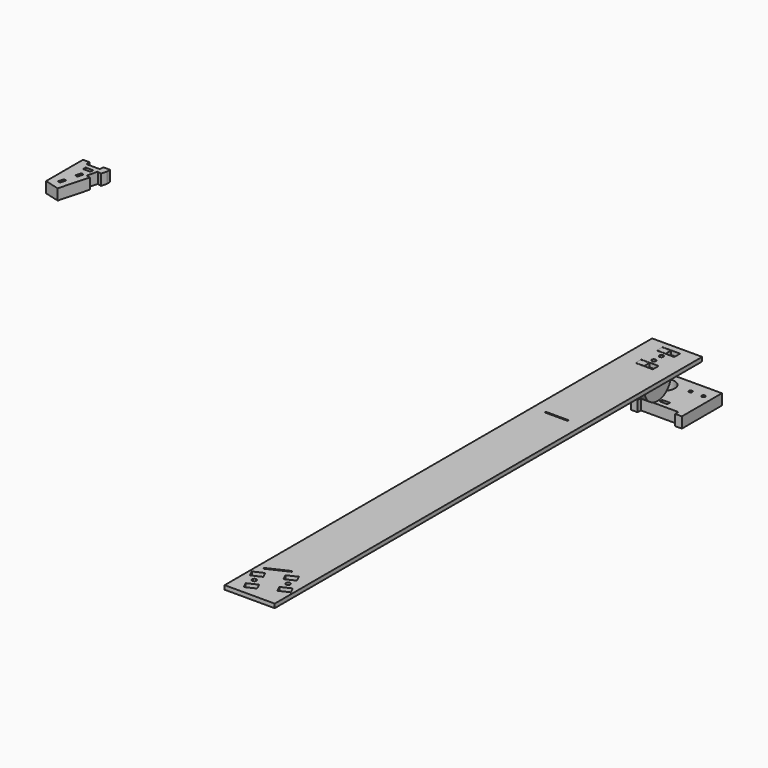
from build123d import *

# Parameters (mm, degrees)
SKETCH_R        = 7.4
SKETCH_R_2      = 1.25
SKETCH_W        = 5.6
SKETCH_H        = 2.4
PAD_DEPTH       = 8
PAD001_DEPTH    = 6.5
SKETCH002_R     = 7.1
PAD002_DEPTH    = 8
SKETCH003_R     = 1.6
POCKET_DEPTH    = 7
SKETCH005_R     = 1.6
POCKET002_DEPTH = 12
SKETCH015_W     = 6.1
SKETCH015_H     = 2.4
POCKET003_DEPTH = 3
SKETCH016_W     = 5.6
SKETCH016_H     = 5.6
POCKET004_DEPTH = 2
CHAMFER_SIZE    = 1.7
SKETCH008_W     = 37
SKETCH008_H     = 395
SKETCH008_R     = 1.5
SKETCH008_R_2   = 1.6
SKETCH008_W_2   = 13
SKETCH008_H_2   = 5.4
SKETCH008_W_3   = 17
SKETCH008_H_3   = 1
PAD003_DEPTH    = 3
SKETCH009_W     = 5.6
SKETCH009_H     = 2.4
PAD004_DEPTH    = 8


with BuildPart() as holder:
    # Sketch → Pad (new body)
    with BuildSketch(Plane.XY):
        with BuildLine():
            Line((-5.334047, 0), (-0.334047, 0))
            Line((-0.334047, 0), (-0.334047, 3))
            Line((-0.334047, 3), (27.4, 3))
            Line((27.4, 3), (27.4, 0))
            Line((27.4, 0), (32.4, 0))
            Line((32.4, 0), (32.4, 37))
            Line((32.4, 37), (5e-06, 37))
            ThreePointArc((5e-06, 37), (-10.157483, 31.712346), (-11.652187, 20.358945))
            Line((-11.652187, 20.358945), (-5.334047, 3))
            Line((-5.334047, 3), (-5.334047, 0))
        make_face()
        with Locations((0, 24.6)):
            Circle(SKETCH_R, mode=Mode.SUBTRACT)
        with Locations((16.9, 27.5)):
            Circle(SKETCH_R_2, mode=Mode.SUBTRACT)
        with Locations((26.4, 27.5)):
            Circle(SKETCH_R_2, mode=Mode.SUBTRACT)
        with Locations((13.532976, 7.8)):
            Rectangle(SKETCH_W, SKETCH_H, mode=Mode.SUBTRACT)
    extrude(amount=PAD_DEPTH)


with BuildPart() as hinge:
    # Sketch001 → Pad001 (new body)
    with BuildSketch(Plane.YZ):
        with BuildLine():
            Line((12.4, 24.6), (12.4, 40))
            Line((12.4, 40), (7.4, 40))
            Line((7.4, 40), (7.4, 37))
            Line((7.4, 37), (-7.4, 37))
            Line((-7.4, 37), (-7.4, 40))
            Line((-7.4, 40), (-12.4, 40))
            Line((-12.4, 40), (-12.4, 24.6))
            ThreePointArc((-12.4, 24.6), (0, 12.2), (12.4, 24.6))
        make_face()
    extrude(amount=PAD001_DEPTH)

    # Sketch002 (on Face9 of Pad001) → Pad002 (join)
    with BuildSketch(Plane(origin=(0, 0, 0), x_dir=(0, 1, 0), z_dir=(-1, 0, 0))):
        with Locations((0, -24.6)):
            Circle(SKETCH002_R)
    extrude(amount=PAD002_DEPTH)

    # Sketch003 (on Face5 of Pad002) → Pocket (cut)
    with BuildSketch(Plane.YZ.offset(6.5)):
        with Locations((8.5, 33)):
            Circle(SKETCH003_R)
        with Locations((-8.5, 33)):
            Circle(SKETCH003_R)
    extrude(amount=-POCKET_DEPTH, mode=Mode.SUBTRACT)

    # Sketch005 → Pocket002 (cut)
    with BuildSketch(Plane(origin=(0, 0, 40), x_dir=(0, -1, 0), z_dir=(0, 0, 1))):
        with Locations((-3.45, 6.5)):
            Circle(SKETCH005_R)
        with Locations((3.45, 6.5)):
            Circle(SKETCH005_R)
    extrude(amount=-POCKET002_DEPTH, mode=Mode.SUBTRACT)

    # Sketch015 (on Face5 of Pocket002) → Pocket003 (cut)
    with BuildSketch(Plane.YZ.offset(6.5)):
        with Locations((-3.5, 32.2)):
            Rectangle(SKETCH015_W, SKETCH015_H)
        with Locations((3.5, 32.2)):
            Rectangle(SKETCH015_W, SKETCH015_H)
    extrude(amount=-POCKET003_DEPTH, mode=Mode.SUBTRACT)

    # Sketch016 (on Face4 of Pocket003) → Pocket004 (cut)
    with BuildSketch(Plane(origin=(0, 0, 0), x_dir=(0, 1, 0), z_dir=(-1, 0, 0))):
        with Locations((-8.5, -33)):
            Rectangle(SKETCH016_W, SKETCH016_H)
    extrude(amount=-POCKET004_DEPTH, mode=Mode.SUBTRACT)

    # Chamfer
    chamfer_edges = [hinge.edges().sort_by_distance(p)[0] for p in [
        (0, 6.9, 33),
    ]]
    chamfer(chamfer_edges, length=CHAMFER_SIZE)


with BuildPart() as hinge_1:
    # Body001 placement: moved
    add(hinge.part.moved(Location((8, 0, 0))))


with BuildPart() as cameraarm:
    # Sketch008 → Pad003 (new body)
    with BuildSketch(Plane.XY):
        with Locations((15, -180.1)):
            Rectangle(SKETCH008_W, SKETCH008_H)
        with Locations((14.5, 3.45)):
            Circle(SKETCH008_R, mode=Mode.SUBTRACT)
        with Locations((14.5, -3.45)):
            Circle(SKETCH008_R, mode=Mode.SUBTRACT)
        with Locations((5.936922, -361.846449)):
            Circle(SKETCH008_R_2, mode=Mode.SUBTRACT)
        with Locations((24.063078, -353.394084)):
            Circle(SKETCH008_R_2, mode=Mode.SUBTRACT)
        with Locations((14.5, 9.9)):
            Rectangle(SKETCH008_W_2, SKETCH008_H_2, mode=Mode.SUBTRACT)
        with Locations((14.5, -9.9)):
            Rectangle(SKETCH008_W_2, SKETCH008_H_2, mode=Mode.SUBTRACT)
        Polygon((-1.914492, -354.473844), (5.335971, -351.092898), (7.449062, -355.624437), (0.1986, -359.005383), align=None, mode=Mode.SUBTRACT)
        Polygon((4.424782, -368.068461), (11.675245, -364.687515), (13.788336, -369.219054), (6.537874, -372.6), align=None, mode=Mode.SUBTRACT)
        Polygon((16.211664, -346.021479), (23.462126, -342.640533), (25.575218, -347.172072), (18.324755, -350.553018), align=None, mode=Mode.SUBTRACT)
        Polygon((22.550938, -359.616096), (29.8014, -356.23515), (31.914492, -360.766689), (24.664029, -364.147635), align=None, mode=Mode.SUBTRACT)
        Polygon((0.534492, -346.711597), (0.95711, -347.617905), (16.364342, -340.433394), (15.941724, -339.527087), align=None, mode=Mode.SUBTRACT)
        with Locations((14.5, -93.1)):
            Rectangle(SKETCH008_W_3, SKETCH008_H_3, mode=Mode.SUBTRACT)
    extrude(amount=PAD003_DEPTH)


with BuildPart() as cameraarm_1:
    # Body002 placement: moved
    add(cameraarm.part.moved(Location((0, 0, 37))))


with BuildPart() as cameraholder:
    # Sketch009 → Pad004 (new body)
    with BuildSketch(Plane.XY):
        Polygon((-372.6, 40), (-372.6, 5.917894), (-361.710273, 3), (-355.757435, 25.216294), (-358.655212, 25.992751), (-356.58466, 33.720158), (-353.686882, 32.943701), (-352.6, 37), (-352.6, 40), (-357.6, 40), (-357.6, 37), (-367.6, 37), (-367.6, 40), align=None)
        with Locations((-362.6, 32.2)):
            Rectangle(SKETCH009_W, SKETCH009_H, mode=Mode.SUBTRACT)
        Polygon((-362.71303, 26.303583), (-360.781178, 25.785945), (-361.945864, 21.439279), (-363.877715, 21.956917), align=None, mode=Mode.SUBTRACT)
        Polygon((-365.948268, 14.22951), (-364.016416, 13.711872), (-365.181102, 9.365206), (-367.112953, 9.882844), align=None, mode=Mode.SUBTRACT)
    extrude(amount=PAD004_DEPTH)


with BuildPart() as cameraholder_1:
    # Body003 placement: moved
    add(cameraholder.part.moved(Location((-65.3, -5.5, 0))))


solid = Compound([holder.part, hinge_1.part, cameraarm_1.part, cameraholder_1.part])
